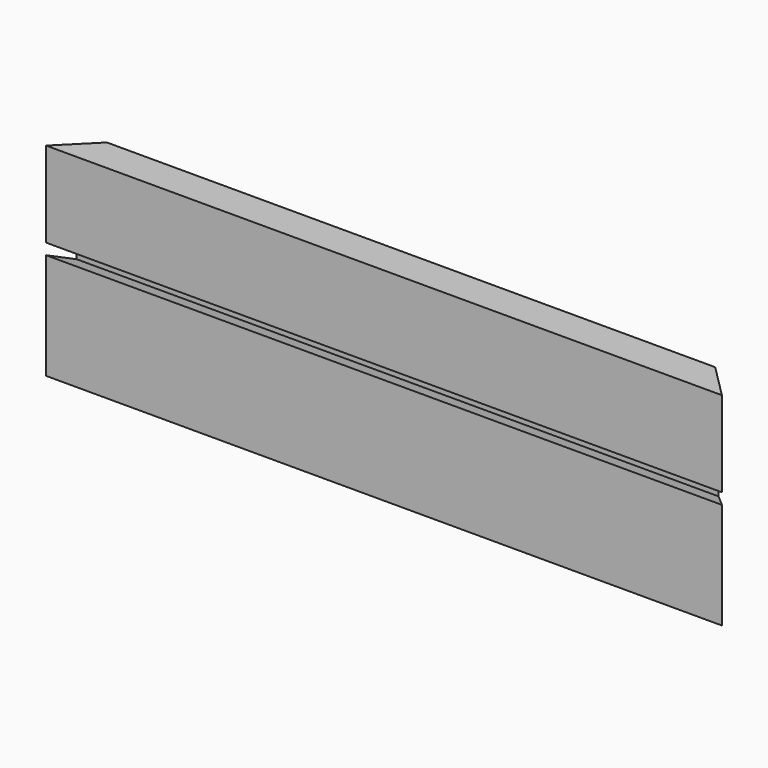
from build123d import *

# Parameters (mm, degrees)
F1_DEPTH = 6.35
F3_DEPTH = 279.4
F5_DEPTH = 76.2
F6_W     = 228.6
F6_H     = 3.175
F7_DEPTH = 3.175


with BuildPart() as f1:
    # F0 (on Front) → F1 (new body, symmetric)
    with BuildSketch(Plane.XZ):
        Polygon((0, 38.1), (0, 0), (254, 0), (254, 76.2), (0, 76.2), align=None)
    extrude(amount=F1_DEPTH, both=True)

    # F2 (on face) → F3 (cut)
    with BuildSketch(Plane(origin=(0, 0, 0), x_dir=(0, -1, 0), z_dir=(-1, 0, 0))):
        Polygon((0, 45.9105), (0, 38.1), (6.35, 39.9208331996), (6.35, 44.0896668004), align=None)
    extrude(amount=-F3_DEPTH, mode=Mode.SUBTRACT)

    # F4 (on face) → F5 (cut, through all)
    with BuildSketch(Plane.XY.offset(76.2)):
        Polygon((0, 6.35), (0, -6.35), (12.7, 6.35), align=None)
        Polygon((241.3, 6.35), (254, -6.35), (254, 6.35), align=None)
    extrude(amount=-F5_DEPTH, mode=Mode.SUBTRACT)

    # F6 (on face) → F7 (cut)
    with BuildSketch(Plane(origin=(0, 6.35, 0), x_dir=(-1, 0, 0), z_dir=(0, 1, 0))):
        with Locations((-127, 71.4375)):
            Rectangle(F6_W, F6_H)
        with Locations((-127, 4.7625)):
            Rectangle(F6_W, F6_H)
    extrude(amount=-F7_DEPTH, mode=Mode.SUBTRACT)


with BuildPart() as f8_1:
    # F8: copy of F1
    add(f1.part)


solid = Compound([f1.part, f8_1.part])
